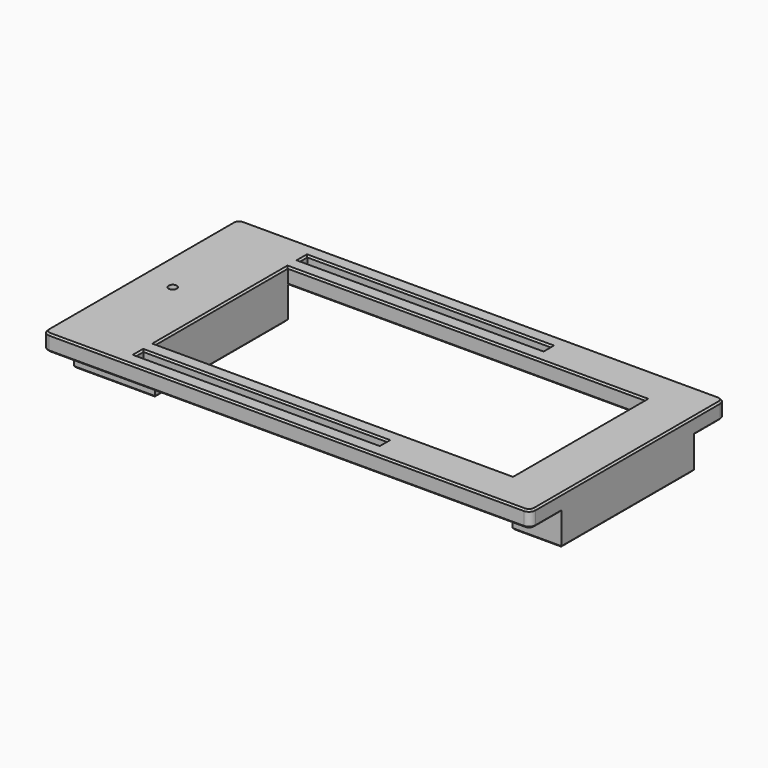
from build123d import *

# Parameters (mm, degrees)
SKETCH010_W     = 220
SKETCH010_H     = 102
SKETCH010_W_2   = 150
SKETCH010_H_2   = 6
PAD006_DEPTH    = 10
SKETCH012_W     = 30
SKETCH012_H     = 102
SKETCH012_W_2   = 50
PAD007_DEPTH    = 19.5
CHAMFER001_SIZE = 1
SKETCH_R        = 2.55
HOLE_DEPTH      = 29.501


with BuildPart() as part:
    # Sketch010 → Pad006 (new body)
    with BuildSketch(Plane.XY):
        with BuildLine():
            Line((-150, 71), (-150, -71))
            ThreePointArc((-150, -71), (-148.828427, -73.828427), (-146, -75))
            Line((-146, -75), (146, -75))
            ThreePointArc((146, -75), (148.828427, -73.828427), (150, -71))
            Line((150, -71), (150, 71))
            ThreePointArc((150, 71), (148.828427, 73.828427), (146, 75))
            Line((146, 75), (-146, 75))
            ThreePointArc((-146, 75), (-148.828427, 73.828427), (-150, 71))
        make_face()
        with Locations((10, 0)):
            Rectangle(SKETCH010_W, SKETCH010_H, mode=Mode.SUBTRACT)
        with Locations((-25, 63)):
            Rectangle(SKETCH010_W_2, SKETCH010_H_2, mode=Mode.SUBTRACT)
        with Locations((-25, -63)):
            Rectangle(SKETCH010_W_2, SKETCH010_H_2, mode=Mode.SUBTRACT)
    extrude(amount=PAD006_DEPTH)

    # Sketch012 (on Face21 of Pad006) → Pad007 (join)
    with BuildSketch(Plane(origin=(0, 0, 0), x_dir=(1, 0, 0), z_dir=(0, 0, -1))):
        with Locations((135, 0)):
            Rectangle(SKETCH012_W, SKETCH012_H)
        with Locations((-125, 0)):
            Rectangle(SKETCH012_W_2, SKETCH012_H)
    extrude(amount=PAD007_DEPTH)

    # Chamfer001
    chamfer001_edges = [part.edges().sort_by_distance(p)[0] for p in [
        (-25, -66, 0),
        (-100, -63, 0),
        (-25, -60, 0),
        (50, -63, 0),
        (50, 63, 0),
        (-25, 66, 0),
        (-25, 60, 0),
        (-100, 63, 0),
        (-150, 0, -19.5),
        (-125, 51, -19.5),
        (-100, 0, -19.5),
        (-125, -51, -19.5),
        (120, 0, -19.5),
        (135, 51, -19.5),
        (150, 0, -19.5),
        (135, -51, -19.5),
        (0, -75, 0),
        (0, 75, 0),
        (10, -51, 0),
        (10, 51, 0),
        (-150, 0, 10),
        (-148.828427, -73.828427, 10),
        (0, -75, 10),
        (148.828427, -73.828427, 10),
        (150, 0, 10),
        (148.828427, 73.828427, 10),
        (0, 75, 10),
        (-148.828427, 73.828427, 10),
        (-100, 0, 10),
        (10, -51, 10),
        (120, 0, 10),
        (10, 51, 10),
        (-100, -63, 10),
        (-25, -66, 10),
        (50, -63, 10),
        (-25, -60, 10),
        (-100, 63, 10),
        (-25, 60, 10),
        (50, 63, 10),
        (-25, 66, 10),
    ]]
    chamfer(chamfer001_edges, length=CHAMFER001_SIZE)

    # Sketch (on Face15 of Chamfer001) → Hole (cut, through all)
    with BuildSketch(Plane.XY.offset(10)):
        with Locations((-130, 0)):
            Circle(SKETCH_R)
    extrude(amount=-HOLE_DEPTH, mode=Mode.SUBTRACT)


solid = part.part
